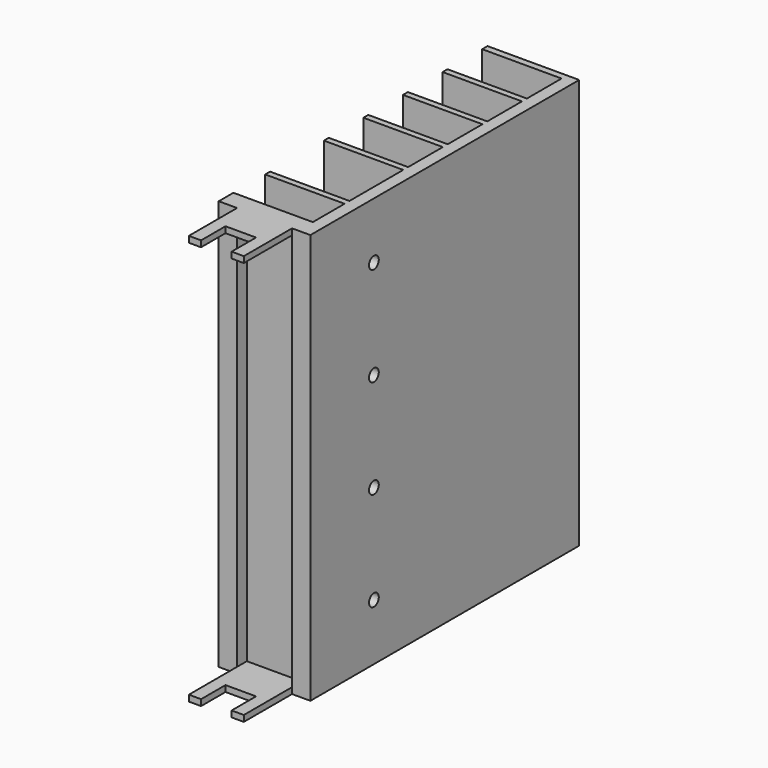
from build123d import *

# Parameters (mm, degrees)
F1_DEPTH = 67.12
F2_DEPTH = 1
F3_START = 66.12
F3_DEPTH = 1
F5_D     = 2


with BuildPart() as f1:
    # F0 (on Top) → F1 (new body)
    with BuildSketch(Plane.XY):
        Polygon((0, 0), (0, 55), (-15, 55), (-15, 54.9), (-15, 53.9), (-2, 53.9), (-2, 46.8), (-15, 46.8), (-15, 45.8), (-2, 45.8), (-2, 38.7), (-15, 38.7), (-15, 37.7), (-2, 37.7), (-2, 30.6), (-15, 30.6), (-15, 29.6), (-2, 29.6), (-2, 22.5), (-15, 22.5), (-15, 21.5), (-2, 21.5), (-2, 10.5), (-15, 10.5), (-15, 9.5), (-2, 9.5), (-2, 3), (-15, 3), (-15, 0), (-12, 0), (-12, 2), (-3, 2), (-3, 0), align=None)
    extrude(amount=F1_DEPTH)

    # F0 (on Top) → F2 (join)
    with BuildSketch(Plane.XY):
        Polygon((-3, -9.87), (-3, 0), (-3, 2), (-12, 2), (-12, 0), (-12, -9.87), (-10, -9.87), (-10, -4.87), (-5, -4.87), (-5, -9.87), align=None)
    extrude(amount=F2_DEPTH)

    # F0 (on Top) → F3 (join)
    with BuildSketch(Plane.XY.offset(F3_START)):
        Polygon((-3, -9.87), (-3, 0), (-3, 2), (-12, 2), (-12, 0), (-12, -9.87), (-10, -9.87), (-10, -4.87), (-5, -4.87), (-5, -9.87), align=None)
    extrude(amount=F3_DEPTH)

    # F5 (through all)
    with Locations(Plane.YZ):
        with Locations((13, 57.87), (13, 41.6633333333), (13, 25.4566666667), (13, 9.25)):
            Hole(F5_D / 2)


solid = f1.part
